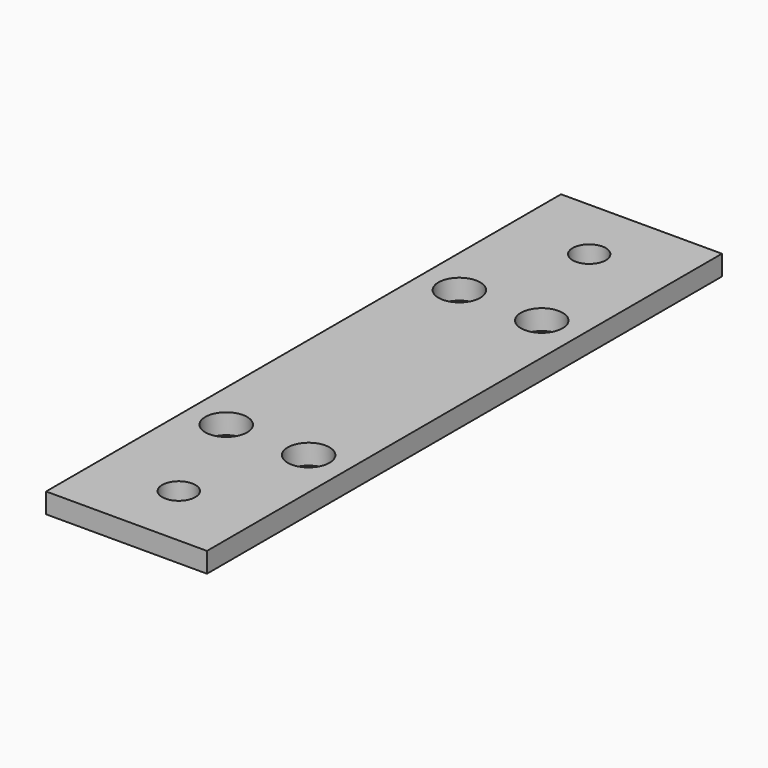
from build123d import *

# Parameters (mm, degrees)
F0_W     = 25.4
F0_H     = 3.175
F1_DEPTH = 101.6
F2_R     = 2.6162
F2_R_2   = 3.302
F3_DEPTH = 3.176


with BuildPart() as f1:
    # F0 (on Front) → F1 (new body)
    with BuildSketch(Plane.XZ):
        Rectangle(F0_W, F0_H)
    extrude(amount=F1_DEPTH)

    # F2 (on face) → F3 (cut, through all)
    with BuildSketch(Plane.XY.offset(1.5875)):
        with Locations((0, -91.2876)):
            Circle(F2_R)
        with Locations((0, -10.3124)):
            Circle(F2_R)
        with Locations((-6.5024, -27.8003)):
            Circle(F2_R_2)
        with Locations((6.5024, -27.8003)):
            Circle(F2_R_2)
        with Locations((6.5024, -73.7997)):
            Circle(F2_R_2)
        with Locations((-6.5024, -73.7997)):
            Circle(F2_R_2)
    extrude(amount=-F3_DEPTH, mode=Mode.SUBTRACT)


solid = f1.part
